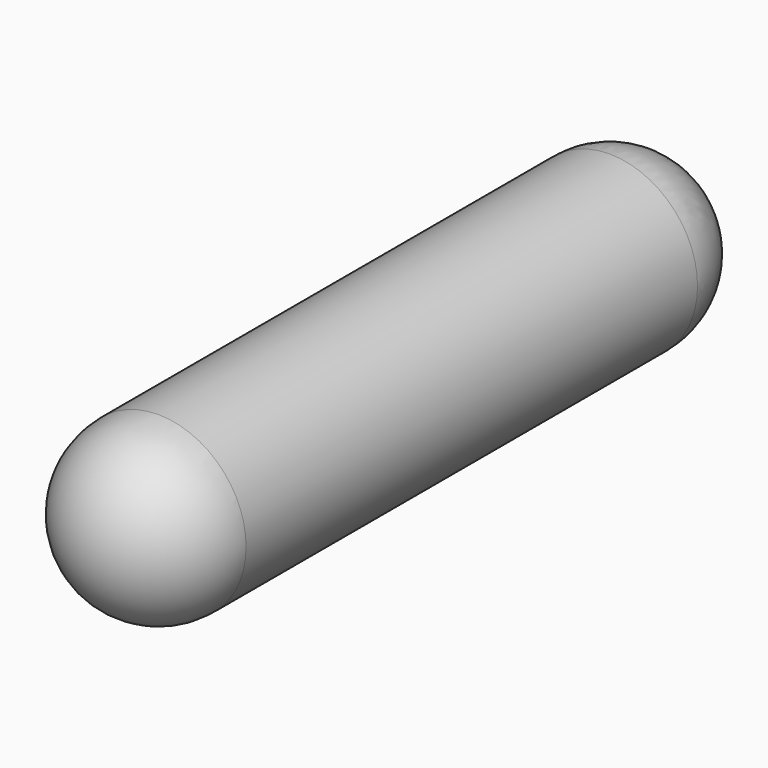
from build123d import *

# Parameters (mm, degrees)
F0_R     = 19.774495
F1_DEPTH = 63.5
F3_ANGLE = 180
F5_ANGLE = 180


with BuildPart() as f1:
    # F0 (on Front) → F1 (new body, symmetric)
    with BuildSketch(Plane.XZ):
        Circle(F0_R)
    extrude(amount=F1_DEPTH, both=True)

    # F2 (on face) → F3 (revolve)
    with BuildSketch(Plane.XZ.offset(63.5)):
        with BuildLine():
            ThreePointArc((19.774495, 0), (0, 19.774495), (-19.774495, 0))
            Line((-19.774495, 0), (19.774495, 0))
        make_face()
    revolve(axis=Axis((0, -63.5, 0), (1, 0, 0)), revolution_arc=F3_ANGLE)

    # F4 (on face) → F5 (revolve)
    with BuildSketch(Plane(origin=(0, 63.5, 0), x_dir=(-1, 0, 0), z_dir=(0, 1, 0))):
        with BuildLine():
            ThreePointArc((19.774495, 0), (0, 19.739219), (-19.774495, 0))
            Line((-19.774495, 0), (19.774495, 0))
        make_face()
    revolve(axis=Axis((0, 63.5, 0), (-1, 0, 0)), revolution_arc=F5_ANGLE)


solid = f1.part
